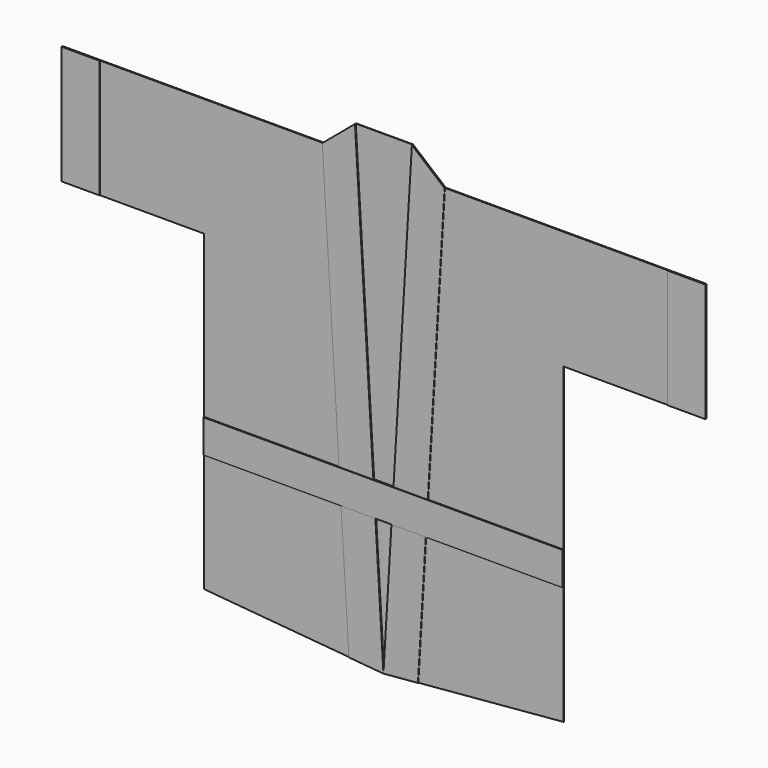
from build123d import *

# Parameters (mm, degrees)
F1_DEPTH = 1
F2_DEPTH = 2
F0_W     = 80
F0_H     = 250
F3_DEPTH = 3
F4_DEPTH = 4


with BuildPart() as f1:
    # F0 (on Front) → F1 (new body)
    with BuildSketch(Plane.XZ):
        Polygon((-60, 307.8508848718), (-21.1679416325, -340), (21.1679416325, -340), (60, 307.8508848718), (0, 307.8508848718), align=None)
    extrude(amount=F1_DEPTH)


with BuildPart() as f1b:
    # F0 (on Front) → F1, piece 2 (new body)
    with BuildSketch(Plane.XZ):
        Polygon((16.9721549952, -410), (-16.9721549952, -410), (0, -693.1533041007), align=None)
    extrude(amount=F1_DEPTH)


with BuildPart() as f2:
    # F0 (on Front) → F2 (new body)
    with BuildSketch(Plane.XZ):
        Polygon((128.9439998807, 250), (93.5795125089, -340), (378.9439998807, -340), (378.9439998807, 0), (598.9439998807, 0), (598.9439998807, 250), align=None)
    extrude(amount=F2_DEPTH)


with BuildPart() as f2b:
    # F0 (on Front) → F2, piece 2 (new body)
    with BuildSketch(Plane.XZ):
        Polygon((-598.9439998807, 0), (-378.9439998807, 0), (-378.9439998807, -340), (-93.5795125089, -340), (-128.9439998807, 250), (-598.9439998807, 250), align=None)
    extrude(amount=F2_DEPTH)


with BuildPart() as f2c:
    # F0 (on Front) → F2, piece 3 (new body)
    with BuildSketch(Plane.XZ):
        Polygon((-89.3837258716, -410), (-378.9439998807, -410), (-378.9439998807, -660), (-72.7933028723, -686.7847153188), align=None)
    extrude(amount=F2_DEPTH)


with BuildPart() as f2d:
    # F0 (on Front) → F2, piece 4 (new body)
    with BuildSketch(Plane.XZ):
        Polygon((89.3837258716, -410), (72.7933028723, -686.7847153188), (378.9439998807, -660), (378.9439998807, -410), align=None)
    extrude(amount=F2_DEPTH)


with BuildPart() as f3:
    # F0 (on Front) → F3 (new body)
    with BuildSketch(Plane.XZ):
        with Locations((638.9439998807, 125)):
            Rectangle(F0_W, F0_H)
    extrude(amount=F3_DEPTH)


with BuildPart() as f3b:
    # F0 (on Front) → F3, piece 2 (new body)
    with BuildSketch(Plane.XZ):
        Polygon((60, 307.8508848718), (21.1679416325, -340), (93.5795125089, -340), (128.9439998807, 250), align=None)
    extrude(amount=F3_DEPTH)


with BuildPart() as f3c:
    # F0 (on Front) → F3, piece 3 (new body)
    with BuildSketch(Plane.XZ):
        Polygon((-128.9439998807, 250), (-93.5795125089, -340), (-21.1679416325, -340), (-60, 307.8508848718), align=None)
    extrude(amount=F3_DEPTH)


with BuildPart() as f3d:
    # F0 (on Front) → F3, piece 4 (new body)
    with BuildSketch(Plane.XZ):
        with Locations((-638.9439998807, 125)):
            Rectangle(F0_W, F0_H)
    extrude(amount=F3_DEPTH)


with BuildPart() as f3e:
    # F0 (on Front) → F3, piece 5 (new body)
    with BuildSketch(Plane.XZ):
        Polygon((-16.9721549952, -410), (-89.3837258716, -410), (-72.7933028723, -686.7847153188), (0, -693.1533041007), align=None)
    extrude(amount=F3_DEPTH)


with BuildPart() as f3f:
    # F0 (on Front) → F3, piece 6 (new body)
    with BuildSketch(Plane.XZ):
        Polygon((16.9721549952, -410), (0, -693.1533041007), (72.7933028723, -686.7847153188), (89.3837258716, -410), align=None)
    extrude(amount=F3_DEPTH)


with BuildPart() as f4:
    # F0 (on Front) → F4 (new body)
    with BuildSketch(Plane.XZ):
        Polygon((-93.5795125089, -340), (-378.9439998807, -340), (-378.9439998807, -410), (-89.3837258716, -410), align=None)
        Polygon((-21.1679416325, -340), (-93.5795125089, -340), (-89.3837258716, -410), (-16.9721549952, -410), align=None)
        Polygon((93.5795125089, -340), (21.1679416325, -340), (16.9721549952, -410), (89.3837258716, -410), align=None)
        Polygon((378.9439998807, -340), (93.5795125089, -340), (89.3837258716, -410), (378.9439998807, -410), align=None)
        Polygon((21.1679416325, -340), (-21.1679416325, -340), (-16.9721549952, -410), (16.9721549952, -410), align=None)
    extrude(amount=F4_DEPTH)


solid = Compound([f1.part, f1b.part, f2.part, f2b.part, f2c.part, f2d.part, f3.part, f3b.part, f3c.part, f3d.part, f3e.part, f3f.part, f4.part])
